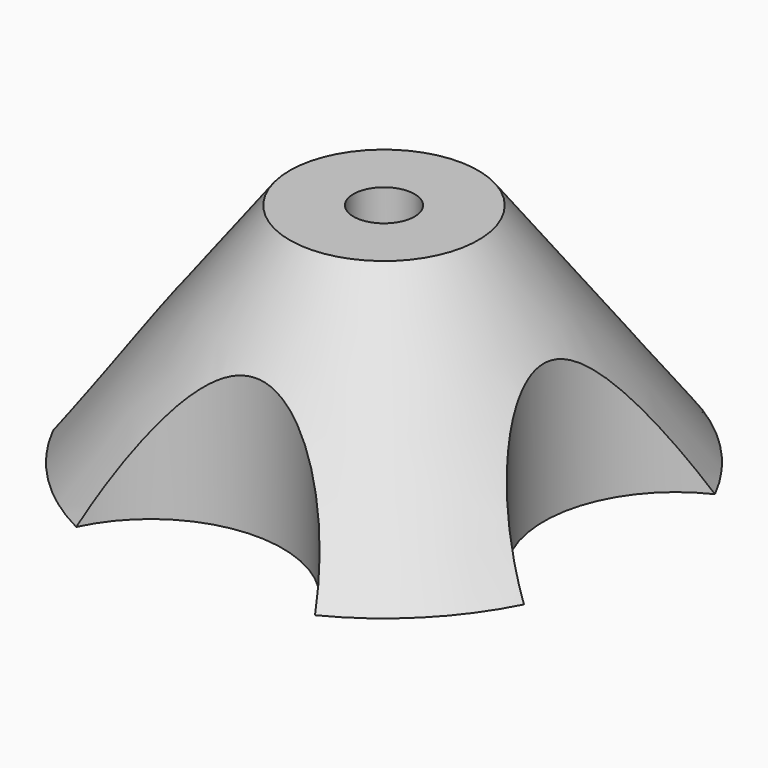
from build123d import *

# Parameters (mm, degrees)
F2_R     = 4.05
F3_DEPTH = 30
F4_R     = 17.5
F5_DEPTH = 25


with BuildPart() as f1:
    # F0 (on Front) → F1 (revolve)
    with BuildSketch(Plane.XZ):
        Polygon((-12.5, 30), (-35, 0), (0, 0), (0, 30), align=None)
    revolve(axis=Axis((0, 0, 15), (0, 0, 1)))

    # F2 (on Top) → F3 (cut)
    with BuildSketch(Plane.XY):
        Circle(F2_R)
    extrude(amount=F3_DEPTH, mode=Mode.SUBTRACT)

    # F4 (on Top) → F5 (cut)
    with BuildSketch(Plane.XY):
        with Locations((0, 38.677964)):
            Circle(F4_R)
        with Locations((-38.677964, 0)):
            Circle(F4_R)
        with Locations((0, -38.677964)):
            Circle(F4_R)
        with Locations((38.677964, 0)):
            Circle(F4_R)
    extrude(amount=F5_DEPTH, mode=Mode.SUBTRACT)


solid = f1.part
